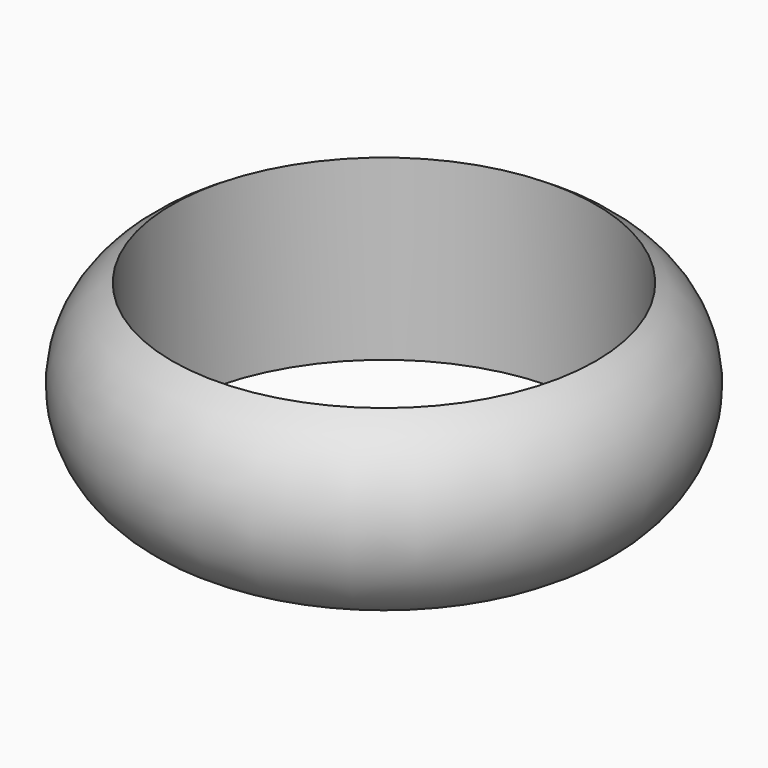
from build123d import *


with BuildPart() as f2:
    # F2: sweep along a path in F0
    with BuildLine(Plane.XY) as f2_path:
        CenterArc((0, 0), 8.5725, 0, 360)
    # F1 (on Front) → F2 (sweep)
    with BuildSketch(Plane.XZ):
        with BuildLine():
            ThreePointArc((-8.763, 7.366), (-10.926709, 3.683), (-8.763, 0))
            Line((-8.763, 0), (-8.763, 7.366))
        make_face()
    sweep(path=f2_path.line)


solid = f2.part
